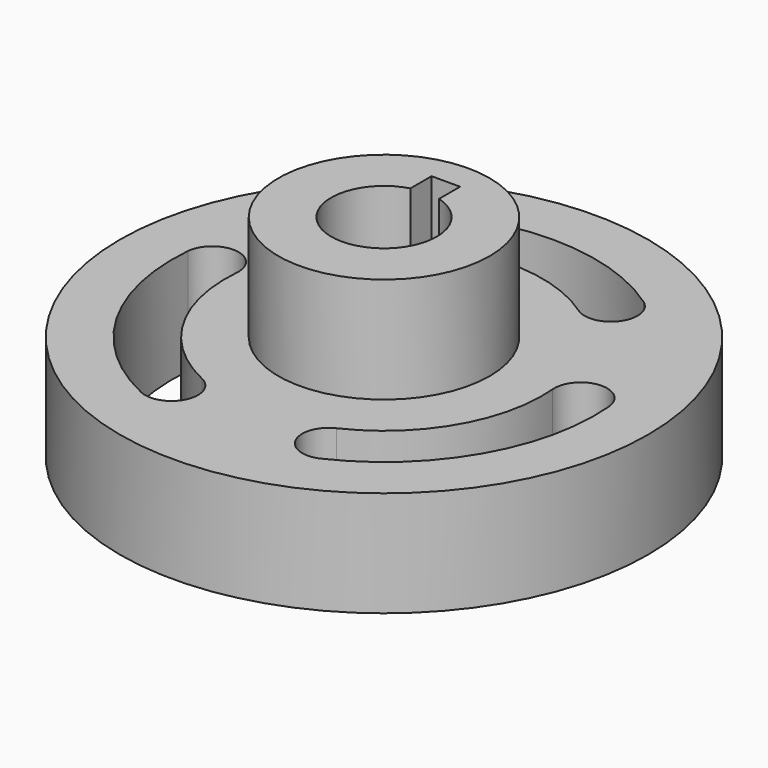
from build123d import *

# Parameters (mm, degrees)
F0_R     = 12.7
F1_DEPTH = 25.4
F2_R     = 31.75
F2_R_2   = 12.7
F3_DEPTH = 12.7
F5_DEPTH = 25.4


with BuildPart() as f1:
    # F0 (on Top) → F1 (new body)
    with BuildSketch(Plane.XY):
        Circle(F0_R)
        with BuildLine():
            ThreePointArc((1.7145, 6.114163), (0, -6.35), (-1.7145, 6.114163))
            Line((-1.7145, 6.114163), (-1.7145, 9.289163))
            Line((-1.7145, 9.289163), (1.7145, 9.289163))
            Line((1.7145, 9.289163), (1.7145, 6.114163))
        make_face(mode=Mode.SUBTRACT)
    extrude(amount=F1_DEPTH)

    # F2 (on face) → F3 (join)
    with BuildSketch(Plane(origin=(0, 0, 0), x_dir=(1, 0, 0), z_dir=(0, 0, -1))):
        Circle(F2_R)
        Circle(F2_R_2, mode=Mode.SUBTRACT)
    extrude(amount=-F3_DEPTH)

    # F4 (on face) → F5 (cut)
    with BuildSketch(Plane.XY.offset(12.7)):
        with BuildLine():
            ThreePointArc((-14.514286, 20.844556), (-15.305569, 16.424701), (-10.885714, 15.633417))
            ThreePointArc((-10.885714, 15.633417), (0, 19.05), (10.885714, 15.633417))
            ThreePointArc((10.885714, 15.633417), (15.305569, 16.424701), (14.514286, 20.844556))
            ThreePointArc((14.514286, 20.844556), (0, 25.4), (-14.514286, 20.844556))
        make_face()
        with BuildLine():
            ThreePointArc((-10.794772, -22.992018), (-6.571423, -21.467362), (-8.096079, -17.244014))
            ThreePointArc((-8.096079, -17.244014), (-16.497784, -9.525), (-18.981793, 1.610597))
            ThreePointArc((-18.981793, 1.610597), (-21.876993, 5.042662), (-25.309058, 2.147462))
            ThreePointArc((-25.309058, 2.147462), (-21.997045, -12.7), (-10.794772, -22.992018))
        make_face()
        with BuildLine():
            ThreePointArc((25.309058, 2.147462), (21.876993, 5.042662), (18.981793, 1.610597))
            ThreePointArc((18.981793, 1.610597), (16.497784, -9.525), (8.096079, -17.244014))
            ThreePointArc((8.096079, -17.244014), (6.571423, -21.467362), (10.794772, -22.992018))
            ThreePointArc((10.794772, -22.992018), (21.997045, -12.7), (25.309058, 2.147462))
        make_face()
    extrude(amount=-F5_DEPTH, mode=Mode.SUBTRACT)


solid = f1.part
